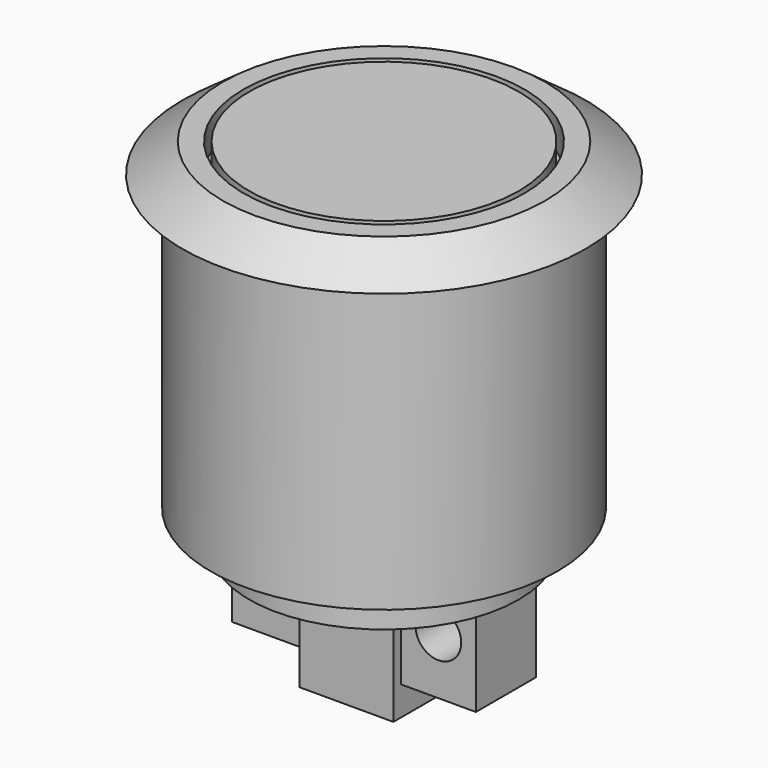
from build123d import *

# Parameters (mm, degrees)
F0_R      = 9.398
F1_DEPTH  = 15.875
F4_R      = 7.62
F4_R_2    = 7.3025
F5_DEPTH  = 1.5875
F6_R      = 7.3025
F7_DEPTH  = 2.032
F8_W      = 5.08
F8_H      = 5.08
F9_DEPTH  = 6.35
F10_W     = 4.064
F10_H     = 4.7625
F10_R     = 1.23825
F11_DEPTH = 2.032


with BuildPart() as f1:
    # F0 (on Top) → F1 (new body)
    with BuildSketch(Plane.XY):
        Circle(F0_R)
    extrude(amount=-F1_DEPTH)

    # F2 (on Front) → F3 (revolve)
    with BuildSketch(Plane.XZ):
        Polygon((0, 1.5875), (0, 0), (10.922, 0), (8.73125, 1.5875), align=None)
    revolve(axis=Axis((0, 0, 0.79375), (0, 0, -1)))

    # F4 (on face) → F5 (cut)
    with BuildSketch(Plane.XY.offset(1.5875)):
        Circle(F4_R)
        Circle(F4_R_2, mode=Mode.SUBTRACT)
    extrude(amount=-F5_DEPTH, mode=Mode.SUBTRACT)

    # F6 (on face) → F7 (join)
    with BuildSketch(Plane(origin=(0, 0, -15.875), x_dir=(1, 0, 0), z_dir=(0, 0, -1))):
        Circle(F6_R)
    extrude(amount=F7_DEPTH)

    # F8 (on face) → F9 (join)
    with BuildSketch(Plane(origin=(0, 0, -17.907), x_dir=(1, 0, 0), z_dir=(0, 0, -1))):
        Rectangle(F8_W, F8_H)
    extrude(amount=F9_DEPTH)

    # F10 (on Front) → F11 (join, symmetric)
    with BuildSketch(Plane.XZ):
        with Locations((-4.572, -20.28825)):
            Rectangle(F10_W, F10_H)
        with Locations((-4.572, -19.6215)):
            Circle(F10_R, mode=Mode.SUBTRACT)
        with Locations((4.572, -20.28825)):
            Rectangle(F10_W, F10_H)
        with Locations((4.572, -19.6215)):
            Circle(F10_R, mode=Mode.SUBTRACT)
    extrude(amount=F11_DEPTH, both=True)


solid = f1.part
